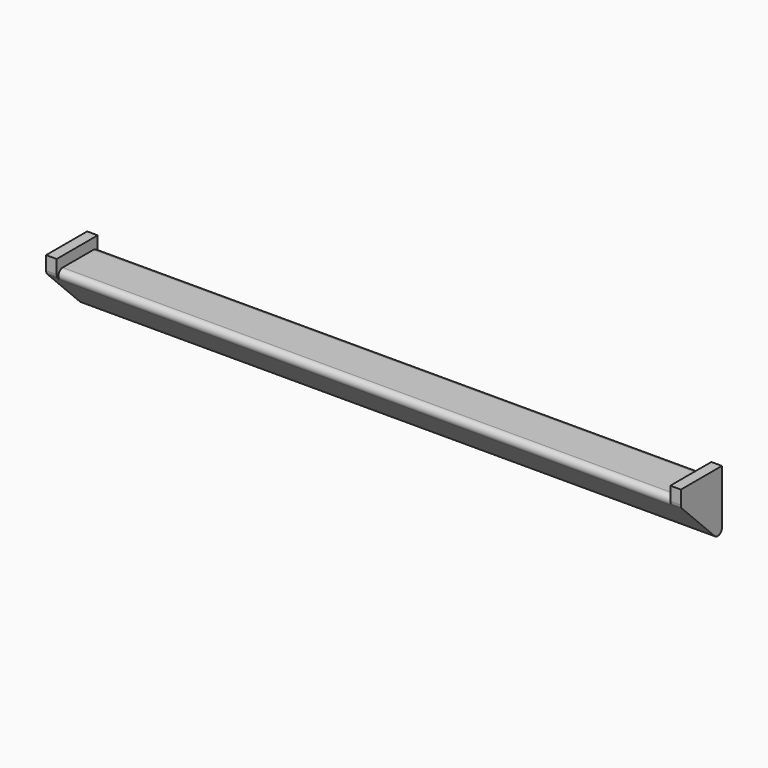
from build123d import *

# Parameters (mm, degrees)
PAD_DEPTH    = 2
PAD001_DEPTH = 116
PAD002_DEPTH = 2


with BuildPart() as part:
    # Sketch → Pad (new body)
    with BuildSketch(Plane.YZ):
        with BuildLine():
            Line((-9.7, 0), (0, 0))
            Line((0, 0), (0, -10.3))
            ThreePointArc((-1.707, -10.992), (-0.624263, -11.211473), (0, -10.3))
            Line((-9.406686, -3.292314), (-1.707, -10.992))
            ThreePointArc((-9.7, -2.59), (-9.62277, -2.970153), (-9.406686, -3.292314))
            Line((-9.7, 0), (-9.7, -2.59))
        make_face()
    extrude(amount=PAD_DEPTH)

    # Sketch001 (on Face8 of Pad) → Pad001 (join)
    with BuildSketch(Plane.YZ.offset(2)):
        with BuildLine():
            Line((0, -3), (0, -10.3))
            ThreePointArc((-1.707, -10.992), (-0.624263, -11.211473), (0, -10.3))
            Line((-8.9902, -3.7088), (-1.707, -10.992))
            ThreePointArc((-8.3, -2), (-9.211954, -2.625443), (-8.9902, -3.7088))
            Line((-8.3, -2), (-1, -2))
            ThreePointArc((0, -3), (-0.292893, -2.292893), (-1, -2))
        make_face()
    extrude(amount=PAD001_DEPTH)

    # Sketch002 (on Face9 of Pad001) → Pad002 (join)
    with BuildSketch(Plane.YZ.offset(118)):
        with BuildLine():
            Line((0, 0), (0, -10.3))
            ThreePointArc((-1.707, -10.992), (-0.624263, -11.211473), (0, -10.3))
            Line((-9.406686, -3.292314), (-1.707, -10.992))
            ThreePointArc((-9.7, -2.59), (-9.62277, -2.970153), (-9.406686, -3.292314))
            Line((-9.7, 0), (-9.7, -2.59))
            Line((0, 0), (-9.7, 0))
        make_face()
    extrude(amount=PAD002_DEPTH)


solid = part.part
